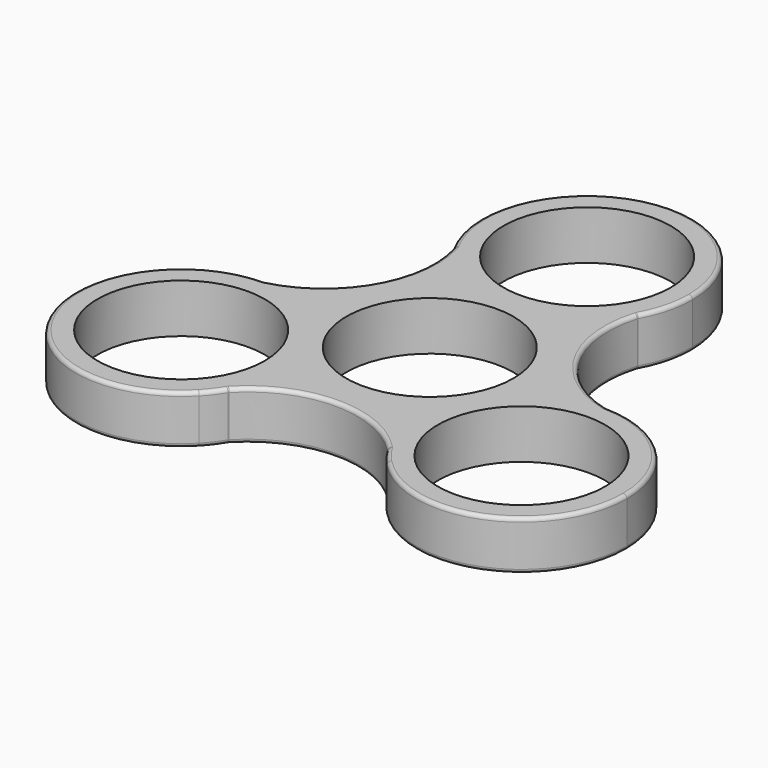
from build123d import *

# Parameters (mm, degrees)
F0_R     = 11.1
F1_DEPTH = 6.5
F2_R     = 0.5


with BuildPart() as f1:
    # F0 (on Top) → F1 (new body)
    with BuildSketch(Plane.XY):
        with BuildLine():
            ThreePointArc((5.0692701644, 13.05), (11.553566166, 7.9066496602), (14, 0))
            ThreePointArc((14, 0), (13.9601518799, -1.0555375362), (13.8408343585, -2.1050663314))
            ThreePointArc((13.8408343585, -2.1050663314), (18.004437216, 0.1949381386), (22.6978143308, 0.9681267154))
            ThreePointArc((22.6978143308, 0.9681267154), (13.5366252412, 7.8580367735), (12.2060576589, 19.2434588584))
            ThreePointArc((12.2060576589, 19.2434588584), (9.175999728, 15.5263994311), (5.0692701644, 13.05))
        make_face()
        with BuildLine():
            ThreePointArc((-5.0692701644, 13.05), (0, 14), (5.0692701644, 13.05))
            ThreePointArc((5.0692701644, 13.05), (9.175999728, 15.5263994311), (12.2060576589, 19.2434588584))
            ThreePointArc((12.2060576589, 19.2434588584), (13.5440910958, 22.5563300962), (14, 26.1))
            ThreePointArc((14, 26.1), (-3.5393577793, 39.6452185848), (-12.21042093, 19.2512321757))
            ThreePointArc((-12.21042093, 19.2512321757), (-9.1793655121, 15.5293212708), (-5.0692701644, 13.05))
        make_face()
        with Locations((0, 26.1)):
            Circle(F0_R, mode=Mode.SUBTRACT)
        with BuildLine():
            ThreePointArc((22.6978143308, 0.9681267154), (18.004437216, 0.1949381386), (13.8408343585, -2.1050663314))
            ThreePointArc((13.8408343585, -2.1050663314), (12.127379507, -6.9947599168), (8.7529048726, -10.9264201041))
            ThreePointArc((8.7529048726, -10.9264201041), (8.8541358225, -15.7191058605), (10.5662710931, -20.1966807935))
            ThreePointArc((10.5662710931, -20.1966807935), (11.5867656184, -21.3981344051), (12.4713194941, -22.7029195592))
            ThreePointArc((12.4713194941, -22.7029195592), (27.8036395988, -26.0259828921), (36.5937392312, -13.0314864355))
            ThreePointArc((36.5937392312, -13.0314864355), (32.5299621401, -3.1688562436), (22.6978143308, 0.9681267154))
        make_face()
        with Locations((22.5937392312, -13.0314864355)):
            Circle(F0_R, mode=Mode.SUBTRACT)
        with BuildLine():
            ThreePointArc((-13.8409020192, -2.1046214136), (-12.116694704, 7.0132524159), (-5.0692701644, 13.05))
            ThreePointArc((-5.0692701644, 13.05), (-9.1793655121, 15.5293212708), (-12.21042093, 19.2512321757))
            ThreePointArc((-12.21042093, 19.2512321757), (-13.5339343288, 7.8627418895), (-22.693629411, 0.9671357003))
            ThreePointArc((-22.693629411, 0.9671357003), (-18.0026368682, 0.1939108804), (-13.8409020192, -2.1046214136))
        make_face()
        with BuildLine():
            ThreePointArc((10.5662710931, -20.1966807935), (8.8541358225, -15.7191058605), (8.7529048726, -10.9264201041))
            ThreePointArc((8.7529048726, -10.9264201041), (0.0011628072, -13.9999999517), (-8.7510897062, -10.9278739448))
            ThreePointArc((-8.7510897062, -10.9278739448), (-8.6318228821, -11.9771821985), (-8.5919917254, -13.0324953584))
            ThreePointArc((-8.5919917254, -13.0324953584), (-9.0941334117, -16.748382997), (-10.5645375744, -20.197713195))
            ThreePointArc((-10.5645375744, -20.197713195), (0.0006446935, -15.6520362214), (10.5662710931, -20.1966807935))
        make_face()
        with BuildLine():
            ThreePointArc((-8.7510897062, -10.9278739448), (-12.1269109355, -6.9955722541), (-13.8409020192, -2.1046214136))
            ThreePointArc((-13.8409020192, -2.1046214136), (-18.0026368682, 0.1939108804), (-22.693629411, 0.9671357003))
            ThreePointArc((-22.693629411, 0.9671357003), (-35.4441015466, -18.5843664974), (-12.4686081124, -22.7029195592))
            ThreePointArc((-12.4686081124, -22.7029195592), (-11.5844844795, -21.3987004515), (-10.5645375744, -20.197713195))
            ThreePointArc((-10.5645375744, -20.197713195), (-9.0941334117, -16.748382997), (-8.5919917254, -13.0324953584))
            ThreePointArc((-8.5919917254, -13.0324953584), (-8.6318228821, -11.9771821985), (-8.7510897062, -10.9278739448))
        make_face()
        with Locations((-22.5919917254, -13.0324953584)):
            Circle(F0_R, mode=Mode.SUBTRACT)
        with BuildLine():
            ThreePointArc((12.4713194941, -22.7029195592), (11.5867656184, -21.3981344051), (10.5662710931, -20.1966807935))
            ThreePointArc((10.5662710931, -20.1966807935), (11.4481261297, -21.5035173958), (12.4713194941, -22.7029195592))
        make_face()
        with BuildLine():
            ThreePointArc((-12.4686081124, -22.7029195592), (-11.4459647138, -21.5039817602), (-10.5645375744, -20.197713195))
            ThreePointArc((-10.5645375744, -20.197713195), (-11.5844844795, -21.3987004515), (-12.4686081124, -22.7029195592))
        make_face()
        with BuildLine():
            ThreePointArc((13.8408343585, -2.1050663314), (13.9601518799, -1.0555375362), (14, 0))
            ThreePointArc((14, 0), (11.553566166, 7.9066496602), (5.0692701644, 13.05))
            ThreePointArc((5.0692701644, 13.05), (0, 12.1), (-5.0692701644, 13.05))
            ThreePointArc((-5.0692701644, 13.05), (-12.116694704, 7.0132524159), (-13.8409020192, -2.1046214136))
            ThreePointArc((-13.8409020192, -2.1046214136), (-10.4650807899, -6.0369231043), (-8.7510897062, -10.9278739448))
            ThreePointArc((-8.7510897062, -10.9278739448), (0.0011628072, -13.9999999517), (8.7529048726, -10.9264201041))
            ThreePointArc((8.7529048726, -10.9264201041), (10.4663597241, -6.0367265187), (13.8408343585, -2.1050663314))
        make_face()
        Circle(F0_R, mode=Mode.SUBTRACT)
        with BuildLine():
            ThreePointArc((-8.7510897062, -10.9278739448), (-10.4650807899, -6.0369231043), (-13.8409020192, -2.1046214136))
            ThreePointArc((-13.8409020192, -2.1046214136), (-12.1269109355, -6.9955722541), (-8.7510897062, -10.9278739448))
        make_face()
        with BuildLine():
            ThreePointArc((8.7529048726, -10.9264201041), (12.127379507, -6.9947599168), (13.8408343585, -2.1050663314))
            ThreePointArc((13.8408343585, -2.1050663314), (10.4663597241, -6.0367265187), (8.7529048726, -10.9264201041))
        make_face()
        with BuildLine():
            ThreePointArc((-5.0692701644, 13.05), (0, 12.1), (5.0692701644, 13.05))
            ThreePointArc((5.0692701644, 13.05), (0, 14), (-5.0692701644, 13.05))
        make_face()
    extrude(amount=F1_DEPTH)

    # F2
    f2_edges = [f1.edges().sort_by_distance(p)[0] for p in [
        (-22.693629, 0.967136, 3.25),
        (-10.564538, -20.197713, 3.25),
        (-34.73876, -19.993531, 0),
        (-34.73876, -19.993531, 6.5),
        (-12.210421, 19.251232, 3.25),
        (-13.533934, 7.862742, 0),
        (-13.533934, 7.862742, 6.5),
        (12.206058, 19.243459, 3.25),
        (0.004457, 40.099999, 0),
        (0.004457, 40.099999, 6.5),
        (22.697814, 0.968127, 3.25),
        (13.536625, 7.858037, 0),
        (13.536625, 7.858037, 6.5),
        (10.566271, -20.196681, 3.25),
        (34.739895, -19.993591, 0),
        (34.739895, -19.993591, 6.5),
        (0.000645, -15.652036, 0),
        (0.000645, -15.652036, 6.5),
    ]]
    fillet(f2_edges, radius=F2_R)


solid = f1.part
